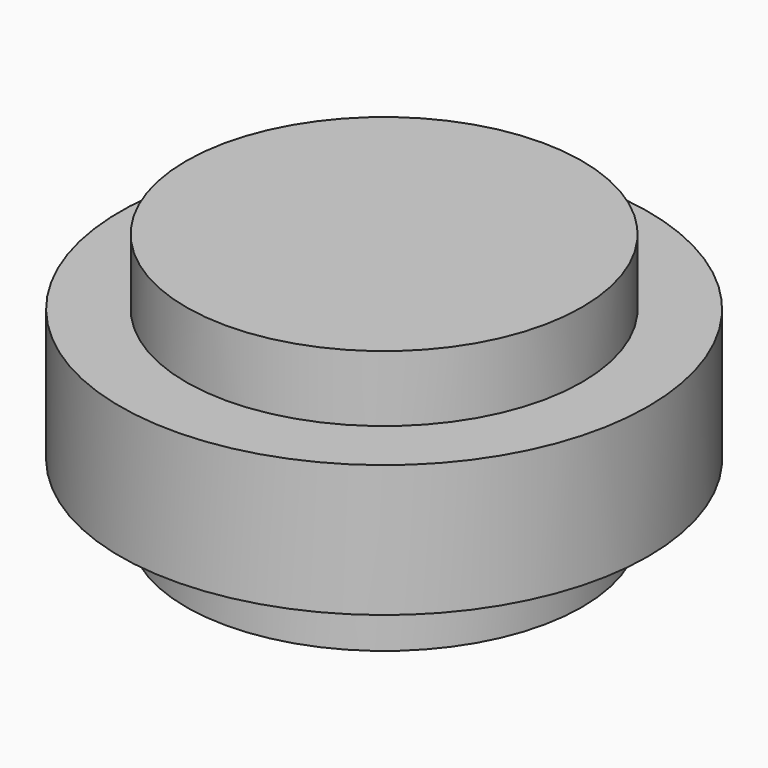
from build123d import *

# Parameters (mm, degrees)
F0_R     = 38.1
F1_DEPTH = 25.4
F0_R_2   = 50.8
F2_DEPTH = 12.7


with BuildPart() as f1:
    # F0 (on Top) → F1 (new body, symmetric)
    with BuildSketch(Plane.XY):
        Circle(F0_R)
    extrude(amount=F1_DEPTH, both=True)

    # F0 (on Top) → F2 (join, symmetric)
    with BuildSketch(Plane.XY):
        Circle(F0_R_2)
        Circle(F0_R, mode=Mode.SUBTRACT)
    extrude(amount=F2_DEPTH, both=True)


solid = f1.part
